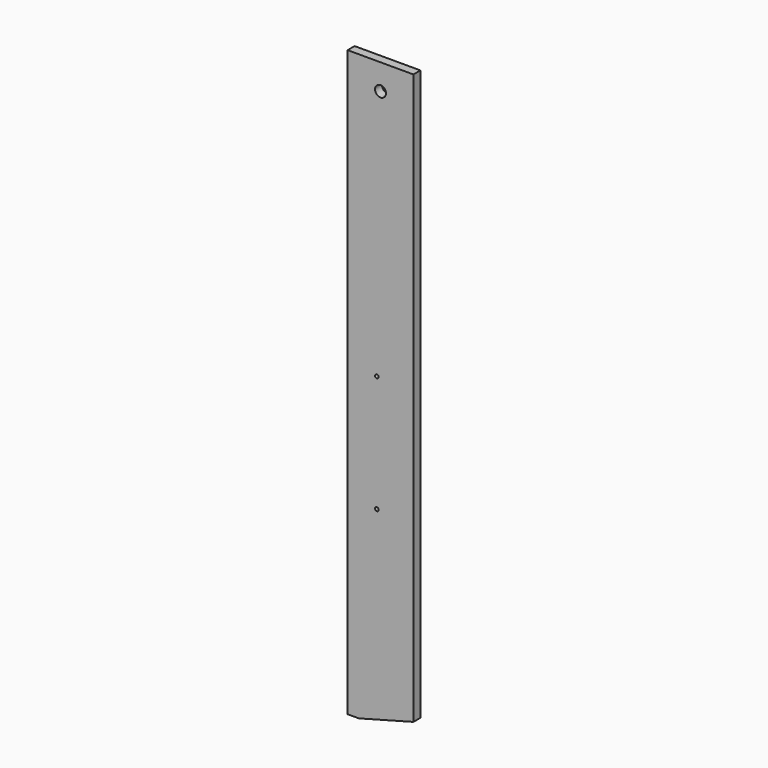
from build123d import *

# Parameters (mm, degrees)
F0_W     = 90
F0_H     = 800
F1_DEPTH = 12
F3_D     = 15
F4_SIZE2 = 74.6410161514
F4_SIZE  = 20
F6_D     = 5


with BuildPart() as f1:
    # F0 (on Front) → F1 (new body)
    with BuildSketch(Plane.XZ):
        with Locations((45, -400)):
            Rectangle(F0_W, F0_H)
    extrude(amount=F1_DEPTH)

    # F3 (through all)
    with Locations(Plane.XZ.offset(12)):
        with Locations((45, -35)):
            Hole(F3_D / 2)

    # F4
    f4_edges = [f1.edges().sort_by_distance(p)[0] for p in [
        (90, -6, -800),
    ]]
    f4_side = f1.faces().sort_by_distance((90, -6, -400))[0]
    chamfer(f4_edges, length=F4_SIZE, length2=F4_SIZE2, reference=f4_side)

    # F6 (through all)
    with Locations(Plane.XZ.offset(12)):
        with Locations((40, -380), (40, -540)):
            Hole(F6_D / 2)


solid = f1.part
